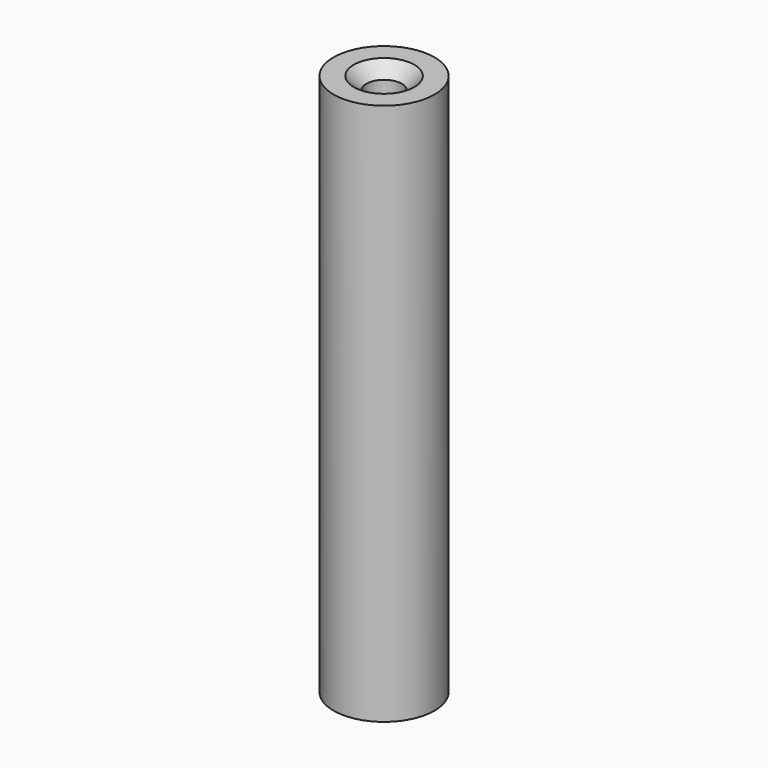
from build123d import *

# Parameters (mm, degrees)
SKETCH_R     = 4
SKETCH_R_2   = 1.4
PAD_DEPTH    = 43
CHAMFER_SIZE = 1


with BuildPart() as part:
    # Sketch → Pad (new body)
    with BuildSketch(Plane.XY):
        Circle(SKETCH_R)
        Circle(SKETCH_R_2, mode=Mode.SUBTRACT)
    extrude(amount=PAD_DEPTH)

    # Chamfer
    chamfer_edges = [part.edges().sort_by_distance(p)[0] for p in [
        (-1.4, 0, 43),
        (-1.4, 0, 0),
    ]]
    chamfer(chamfer_edges, length=CHAMFER_SIZE)


solid = part.part
